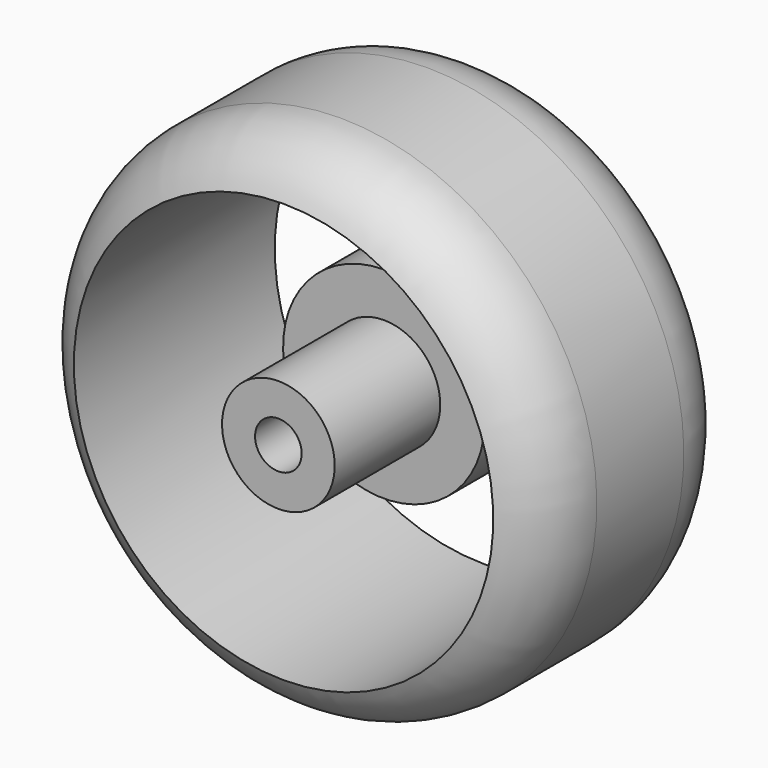
from build123d import *


with BuildPart() as f1:
    # F0 (on Right) → F1 (revolve)
    with BuildSketch(Plane.YZ):
        with BuildLine():
            Line((12, 16.5), (5, 16.5))
            ThreePointArc((5, 16.5), (2.261387, 15.6833), (0.417424, 13.5))
            Line((0.417424, 13.5), (16.582576, 13.5))
            ThreePointArc((16.582576, 13.5), (14.738613, 15.6833), (12, 16.5))
        make_face()
        with BuildLine():
            Line((8.492263, 3.627209), (0, 3.627209))
            Line((0, 3.627209), (0, 1.5))
            Line((0, 1.5), (18.5189, 1.5))
            ThreePointArc((18.5189, 1.5), (16.473655, 5.075935), (12.604497, 6.49013))
            Line((12.604497, 6.49013), (8.492263, 6.49013))
            Line((8.492263, 6.49013), (8.492263, 3.627209))
        make_face()
    revolve(axis=Axis((0, 2.603494, 0), (0, 1, 0)))


solid = f1.part
